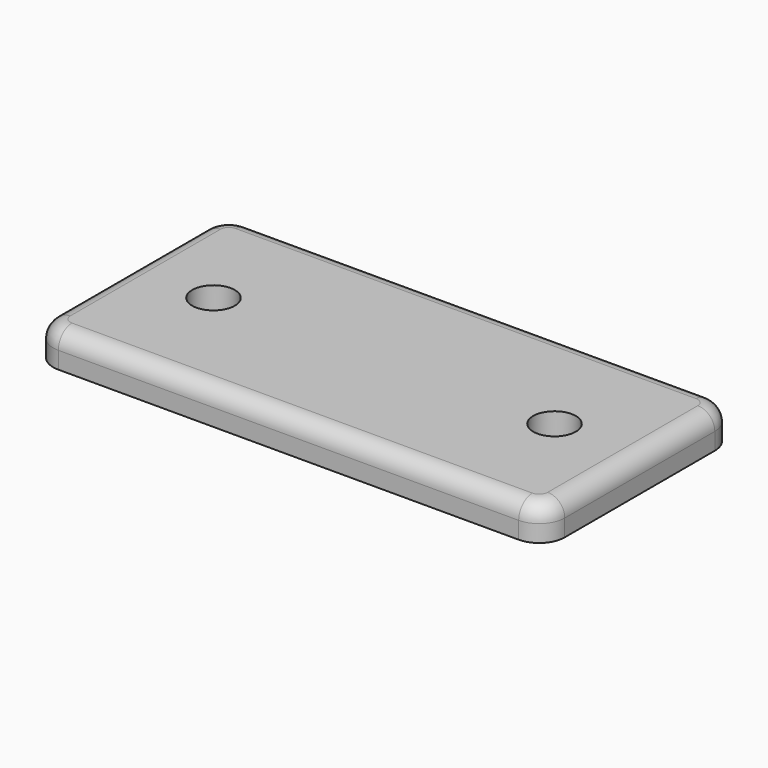
from build123d import *

# Parameters (mm, degrees)
F0_W     = 60
F0_H     = 28
F0_R     = 2.5
F1_DEPTH = 4
F2_W     = 54
F2_H     = 22
F3_DEPTH = 0.6
F4_R     = 3
F5_R     = 2
F6_W     = 25
F6_H     = 5
F7_DEPTH = 0.6


with BuildPart() as f1:
    # F0 (on Top) → F1 (new body)
    with BuildSketch(Plane.XY):
        Rectangle(F0_W, F0_H)
        with Locations((-20, 0)):
            Circle(F0_R, mode=Mode.SUBTRACT)
        with Locations((20, 0)):
            Circle(F0_R, mode=Mode.SUBTRACT)
    extrude(amount=F1_DEPTH)

    # F2 (on face) → F3 (cut)
    with BuildSketch(Plane(origin=(0, 0, 0), x_dir=(1, 0, 0), z_dir=(0, 0, -1))):
        Rectangle(F2_W, F2_H)
    extrude(amount=-F3_DEPTH, mode=Mode.SUBTRACT)

    # F4
    f4_edges = [f1.edges().sort_by_distance(p)[0] for p in [
        (-30, 14, 2),
        (-30, -14, 2),
        (30, -14, 2),
        (30, 14, 2),
    ]]
    fillet(f4_edges, radius=F4_R)

    # F5
    f5_edges = [f1.edges().sort_by_distance(p)[0] for p in [
        (0, 14, 4),
    ]]
    fillet(f5_edges, radius=F5_R)

    # F6 (on face) → F7 (join, through all)
    with BuildSketch(Plane(origin=(0, 0, 0.6), x_dir=(1, 0, 0), z_dir=(0, 0, -1))):
        Rectangle(F6_W, F6_H)
    extrude(amount=F7_DEPTH)


solid = f1.part
